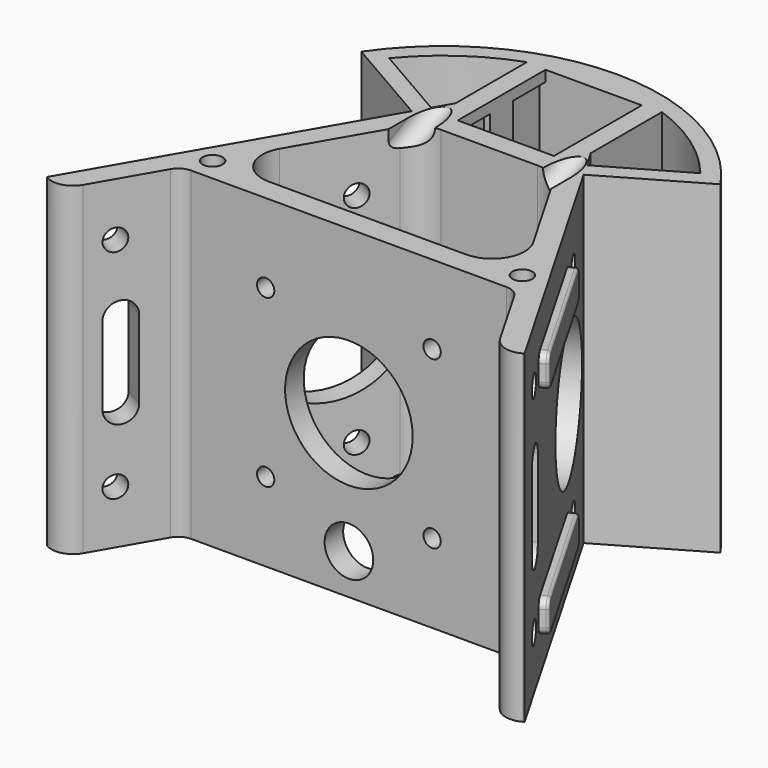
from build123d import *

# Parameters (mm, degrees)
F0_R           = 1.85
F1_DEPTH       = 30
F1_DEPTH_BACK  = 30
F2_DEPTH       = 1.2
F2_DEPTH_BACK  = 1.2
F3_R           = 7
F3_R_2         = 4
F4_DEPTH       = 5
F5_R           = 11.8
F5_R_2         = 4.5
F5_R_3         = 1.6
F6_DEPTH       = 5
F7_R           = 12.75
F7_R_2         = 2
F8_DEPTH       = 5
F7_W           = 28.8
F7_H           = 6
F9_DEPTH       = 1.6
F10_R          = 12.75
F10_R_2        = 2
F11_DEPTH      = 5
F10_W          = 28.8
F10_H          = 6
F12_DEPTH      = 1.6
F13_DEPTH      = 20
F13_DEPTH_BACK = 20
F14_R          = 2.3
F15_DEPTH      = 8
F14_R_2        = 4
F16_DEPTH      = 6
F17_DEPTH      = 3.7
F20_W          = 17.8281234856
F20_H          = 5
F21_DEPTH      = 20
F23_DEPTH      = 10
F23_DEPTH_BACK = 10
F24_W          = 1.1
F24_H          = 7.5
F25_DEPTH      = 2
F26_R          = 1.5
F27_R          = 0.5


with BuildPart() as f1:
    # F0 (on Top) → F1 (new body, two sides)
    with BuildSketch(Plane.XY) as f1_sk:
        with BuildLine():
            Line((-29.1790561914, -36.3), (0, -36.3))
            Line((0, -36.3), (29.1790561914, -36.3))
            ThreePointArc((29.1790561914, -36.3), (30.6790561914, -36.7019237886), (31.7771324027, -37.8))
            Line((31.7771324027, -37.8), (38.5626933041, -49.5529362391))
            ThreePointArc((38.5626933041, -49.5529362391), (40.9915187388, -51.4166395442), (44.0267949192, -51.0170378542))
            Line((44.0267949192, -51.0170378542), (44.2, -50.9170378542))
            Line((44.2, -50.9170378542), (15.9, -1.9))
            Line((15.9, -1.9), (33.2205080757, 8.1))
            ThreePointArc((33.2205080757, 8.1), (18.7832372077, 20.9854948523), (0, 25.6396078403))
            ThreePointArc((0, 25.6396078403), (-18.7832372077, 20.9854948523), (-33.2205080757, 8.1))
            Line((-33.2205080757, 8.1), (-15.9, -1.9))
            Line((-15.9, -1.9), (-44.2, -50.9170378542))
            Line((-44.2, -50.9170378542), (-44.0267949192, -51.0170378542))
            ThreePointArc((-44.0267949192, -51.0170378542), (-40.9915187388, -51.4166395442), (-38.5626933041, -49.5529362391))
            Line((-38.5626933041, -49.5529362391), (-31.7771324027, -37.8))
            ThreePointArc((-31.7771324027, -37.8), (-30.6790561914, -36.7019237886), (-29.1790561914, -36.3))
        make_face()
        with Locations((-28.6594409491, -32)):
            Circle(F0_R, mode=Mode.SUBTRACT)
        with BuildLine():
            Line((-8.9140617428, -3.8), (0, -3.8))
            Line((0, -3.8), (8.9140617428, -3.8))
            ThreePointArc((8.9140617428, -3.8), (11.9140617428, -4.6038475773), (14.1102141655, -6.8))
            Line((14.1102141655, -6.8), (23.4632885264, -23))
            ThreePointArc((23.4632885264, -23), (23.4632885264, -29), (18.2671361037, -32))
            Line((18.2671361037, -32), (0, -32))
            Line((0, -32), (-18.2671361037, -32))
            ThreePointArc((-18.2671361037, -32), (-23.4632885264, -29), (-23.4632885264, -23))
            Line((-23.4632885264, -23), (-14.1102141655, -6.8))
            ThreePointArc((-14.1102141655, -6.8), (-11.9140617428, -4.6038475773), (-8.9140617428, -3.8))
        make_face(mode=Mode.SUBTRACT)
        with Locations((28.6594409491, -32)):
            Circle(F0_R, mode=Mode.SUBTRACT)
        with BuildLine():
            Line((-12.5, 3.9889727457), (-14.4, 0.6980762114))
            Line((-14.4, 0.6980762114), (-28.7948873374, 9.0089682906))
            ThreePointArc((-28.7948873374, 9.0089682906), (-21.4290492058, 15.8541470878), (-12.5, 20.4784442699))
            Line((-12.5, 20.4784442699), (-12.5, 3.9889727457))
        make_face(mode=Mode.SUBTRACT)
        Polygon((10, 0), (0, 0), (-10, 0), (-10, 7.5), (-8.9, 7.5), (-8.9, 12.8), (-10, 12.8), (-10, 20.3), (0, 20.3), (10, 20.3), (10, 12.8), (8.9, 12.8), (8.9, 7.5), (10, 7.5), align=None, mode=Mode.SUBTRACT)
        with BuildLine():
            Line((28.7948873374, 9.0089682906), (14.4, 0.6980762114))
            Line((14.4, 0.6980762114), (12.5, 3.9889727457))
            Line((12.5, 3.9889727457), (12.5, 20.4784442699))
            ThreePointArc((12.5, 20.4784442699), (21.4290492058, 15.8541470878), (28.7948873374, 9.0089682906))
        make_face(mode=Mode.SUBTRACT)
    extrude(amount=F1_DEPTH)
    extrude(f1_sk.sketch, amount=-F1_DEPTH_BACK)

    # F0 (on Top) → F2 (join, two sides)
    with BuildSketch(Plane.XY) as f2_sk:
        with BuildLine():
            Line((-28.7948873374, 9.0089682906), (-14.4, 0.6980762114))
            Line((-14.4, 0.6980762114), (-12.5, 3.9889727457))
            Line((-12.5, 3.9889727457), (-12.5, 20.4784442699))
            ThreePointArc((-12.5, 20.4784442699), (-21.4290492058, 15.8541470878), (-28.7948873374, 9.0089682906))
        make_face()
        with BuildLine():
            Line((12.5, 3.9889727457), (14.4, 0.6980762114))
            Line((14.4, 0.6980762114), (28.7948873374, 9.0089682906))
            ThreePointArc((28.7948873374, 9.0089682906), (21.4290492058, 15.8541470878), (12.5, 20.4784442699))
            Line((12.5, 20.4784442699), (12.5, 3.9889727457))
        make_face()
    extrude(amount=F2_DEPTH)
    extrude(f2_sk.sketch, amount=-F2_DEPTH_BACK)

    # F3 (on face) → F4 (cut)
    with BuildSketch(Plane(origin=(0, 0, 0), x_dir=(-1, 0, 0), z_dir=(0, 1, 0))):
        Circle(F3_R)
        with Locations((0, -22)):
            Circle(F3_R_2)
    extrude(amount=-F4_DEPTH, mode=Mode.SUBTRACT)

    # F5 (on face) → F6 (cut)
    with BuildSketch(Plane.XZ.offset(36.3)):
        Circle(F5_R)
        with Locations((0, -22.5)):
            Circle(F5_R_2)
        with Locations((15.4, -15.4)):
            Circle(F5_R_3)
        with Locations((15.4, 15.4)):
            Circle(F5_R_3)
        with Locations((-15.4, 15.4)):
            Circle(F5_R_3)
        with Locations((-15.4, -15.4)):
            Circle(F5_R_3)
    extrude(amount=-F6_DEPTH, mode=Mode.SUBTRACT)

    # F7 (on face) → F8 (cut)
    with BuildSketch(Plane(origin=(11.1022758664, 6.4099019601, 0), x_dir=(-0.5, 0.8660254038, 0), z_dir=(0.8660254038, 0.5, 0))):
        with BuildLine():
            ThreePointArc((-53.4954482672, 7.25), (-56.3454482672, 10.1), (-59.1954482672, 7.25))
            Line((-59.1954482672, 7.25), (-59.1954482672, -7.25))
            ThreePointArc((-59.1954482672, -7.25), (-56.3454482672, -10.1), (-53.4954482672, -7.25))
            Line((-53.4954482672, -7.25), (-53.4954482672, 7.25))
        make_face()
        with Locations((-23.8454482672, 0)):
            Circle(F7_R)
        with Locations((-19.6954482672, 20.1)):
            Circle(F7_R_2)
        with Locations((-57.1954482672, 20.1)):
            Circle(F7_R_2)
        with Locations((-57.1954482672, -20.1)):
            Circle(F7_R_2)
        with Locations((-19.6954482672, -20.1)):
            Circle(F7_R_2)
    extrude(amount=-F8_DEPTH, mode=Mode.SUBTRACT)

    # F7 (on face) → F9 (join)
    with BuildSketch(Plane(origin=(11.1022758664, 6.4099019601, 0), x_dir=(-0.5, 0.8660254038, 0), z_dir=(0.8660254038, 0.5, 0))):
        with Locations((-38.4454482672, 20)):
            Rectangle(F7_W, F7_H)
        with Locations((-38.4454482672, -20)):
            Rectangle(F7_W, F7_H)
    extrude(amount=F9_DEPTH)

    # F10 (on face) → F11 (cut)
    with BuildSketch(Plane(origin=(-11.1022758664, 6.4099019601, 0), x_dir=(-0.5, -0.8660254038, 0), z_dir=(-0.8660254038, 0.5, 0))):
        with Locations((23.8454482672, 0)):
            Circle(F10_R)
        with BuildLine():
            ThreePointArc((59.1954482672, 7.25), (56.3454482672, 10.1), (53.4954482672, 7.25))
            Line((53.4954482672, 7.25), (53.4954482672, -7.25))
            ThreePointArc((53.4954482672, -7.25), (56.3454482672, -10.1), (59.1954482672, -7.25))
            Line((59.1954482672, -7.25), (59.1954482672, 7.25))
        make_face()
        with Locations((57.1954482672, -20.1)):
            Circle(F10_R_2)
        with Locations((19.6954482672, 20.1)):
            Circle(F10_R_2)
        with Locations((57.1954482672, 20.1)):
            Circle(F10_R_2)
        with Locations((19.6954482672, -20.1)):
            Circle(F10_R_2)
    extrude(amount=-F11_DEPTH, mode=Mode.SUBTRACT)

    # F10 (on face) → F12 (join)
    with BuildSketch(Plane(origin=(-11.1022758664, 6.4099019601, 0), x_dir=(-0.5, -0.8660254038, 0), z_dir=(-0.8660254038, 0.5, 0))):
        with Locations((38.4454482672, 20)):
            Rectangle(F10_W, F10_H)
        with Locations((38.4454482672, -20)):
            Rectangle(F10_W, F10_H)
    extrude(amount=F12_DEPTH)

    # F0 (on Top) → F13 (join, two sides)
    with BuildSketch(Plane.XY) as f13_sk:
        with Locations((-28.6594409491, -32)):
            Circle(F0_R)
        with Locations((28.6594409491, -32)):
            Circle(F0_R)
    extrude(amount=F13_DEPTH)
    extrude(f13_sk.sketch, amount=-F13_DEPTH_BACK)

    # F14 (on face) → F15 (cut)
    with BuildSketch(Plane.XZ.offset(-20.3)):
        with Locations((0, -16.7)):
            Circle(F14_R)
        with Locations((0, 16.7)):
            Circle(F14_R)
    extrude(amount=-F15_DEPTH, mode=Mode.SUBTRACT)

    # F14 (on face) → F16 (cut)
    with BuildSketch(Plane.XZ.offset(-20.3)):
        with Locations((0, -16.7)):
            Circle(F14_R_2)
        with Locations((0, -16.7)):
            Circle(F14_R, mode=Mode.SUBTRACT)
        with Locations((0, 16.7)):
            Circle(F14_R_2)
        with Locations((0, 16.7)):
            Circle(F14_R, mode=Mode.SUBTRACT)
    extrude(amount=-F16_DEPTH, mode=Mode.SUBTRACT)

    # F14 (on face) → F17 (join)
    with BuildSketch(Plane.XZ.offset(-20.3)):
        with Locations((0, -16.7)):
            Circle(F14_R_2)
        with Locations((0, -16.7)):
            Circle(F14_R, mode=Mode.SUBTRACT)
        with Locations((0, 16.7)):
            Circle(F14_R_2)
        with Locations((0, 16.7)):
            Circle(F14_R, mode=Mode.SUBTRACT)
    extrude(amount=-F17_DEPTH)

    # F24 (on face) → F25 (join)
    with BuildSketch(Plane.XY.offset(30)):
        with Locations((-9.45, 16.55)):
            Rectangle(F24_W, F24_H)
        with Locations((-9.45, 3.75)):
            Rectangle(F24_W, F24_H)
        with Locations((9.45, 16.55)):
            Rectangle(F24_W, F24_H)
        with Locations((9.45, 3.75)):
            Rectangle(F24_W, F24_H)
    extrude(amount=-F25_DEPTH)

    # F26
    f26_edges = [f1.edges().sort_by_distance(p)[0] for p in [
        (38.21782, -38.955599, 23),
        (38.21782, -38.955599, 17),
        (23.81782, -14.014067, 23),
        (23.81782, -14.014067, 17),
        (23.81782, -14.014067, -17),
        (23.81782, -14.014067, -23),
        (38.21782, -38.955599, -17),
        (38.21782, -38.955599, -23),
        (-38.21782, -38.955599, 23),
        (-38.21782, -38.955599, 17),
        (-38.21782, -38.955599, -17),
        (-38.21782, -38.955599, -23),
        (-23.81782, -14.014067, 23),
        (-23.81782, -14.014067, 17),
        (-23.81782, -14.014067, -17),
        (-23.81782, -14.014067, -23),
    ]]
    fillet(f26_edges, radius=F26_R)

    # F27
    f27_edges = [f1.edges().sort_by_distance(p)[0] for p in [
        (-31.710641, -26.084833, 17),
        (-24.730311, -13.994547, 17.43934),
        (-38.690971, -38.175119, 17.43934),
        (-24.510641, -13.614067, 20),
        (-38.910641, -38.555599, 20),
        (-24.730311, -13.994547, 22.56066),
        (-38.690971, -38.175119, 22.56066),
        (-31.710641, -26.084833, 23),
        (-24.510641, -13.614067, -20),
        (-24.730311, -13.994547, -17.43934),
        (-24.730311, -13.994547, -22.56066),
        (-31.710641, -26.084833, -17),
        (-31.710641, -26.084833, -23),
        (-38.690971, -38.175119, -17.43934),
        (-38.690971, -38.175119, -22.56066),
        (-38.910641, -38.555599, -20),
        (31.710641, -26.084833, 23),
        (24.730311, -13.994547, 22.56066),
        (38.690971, -38.175119, 22.56066),
        (24.510641, -13.614067, 20),
        (38.910641, -38.555599, 20),
        (24.730311, -13.994547, 17.43934),
        (38.690971, -38.175119, 17.43934),
        (31.710641, -26.084833, 17),
        (31.710641, -26.084833, -17),
        (24.730311, -13.994547, -17.43934),
        (38.690971, -38.175119, -17.43934),
        (24.510641, -13.614067, -20),
        (38.910641, -38.555599, -20),
        (24.730311, -13.994547, -22.56066),
        (38.690971, -38.175119, -22.56066),
        (31.710641, -26.084833, -23),
    ]]
    fillet(f27_edges, radius=F27_R)


with BuildPart() as f21:
    # F20 (on face) → F21 (new body)
    with BuildSketch(Plane(origin=(0, -11.851969025, -26.3828077611), x_dir=(1, 0, 0), z_dir=(0, 0.4097810757, 0.9121839014))):
        with Locations((0, 6.3271334459)):
            Rectangle(F20_W, F20_H)
    extrude(amount=-F21_DEPTH)


with BuildPart() as f23:
    # F22 (on face) → F23 (new body, two sides)
    with BuildSketch(Plane(origin=(0, 8.051969025, -3.6171922389), x_dir=(-1, 0, 0), z_dir=(0, 0.9121839014, -0.4097810757))) as f23_sk:
        with BuildLine():
            ThreePointArc((10, -28.92268513), (12.5, -31.42268513), (15, -28.92268513))
            Line((15, -28.92268513), (10, -28.92268513))
        make_face()
        with BuildLine():
            Line((15, -35.42268513), (15, -28.92268513))
            ThreePointArc((15, -28.92268513), (12.5, -31.42268513), (10, -28.92268513))
            Line((10, -28.92268513), (10, -35.42268513))
            Line((10, -35.42268513), (15, -35.42268513))
        make_face()
        with BuildLine():
            Line((10, -28.92268513), (15, -28.92268513))
            ThreePointArc((15, -28.92268513), (12.5, -26.42268513), (10, -28.92268513))
        make_face()
    extrude(amount=-F23_DEPTH)
    extrude(f23_sk.sketch, amount=F23_DEPTH_BACK)


with BuildPart() as f23b:
    # F22 (on face) → F23, piece 2 (new body, two sides)
    with BuildSketch(Plane(origin=(0, 8.051969025, -3.6171922389), x_dir=(-1, 0, 0), z_dir=(0, 0.9121839014, -0.4097810757))) as f23_2_sk:
        with BuildLine():
            Line((-10, -35.42268513), (-10, -28.92268513))
            ThreePointArc((-10, -28.92268513), (-12.5, -31.42268513), (-15, -28.92268513))
            Line((-15, -28.92268513), (-15, -35.42268513))
            Line((-15, -35.42268513), (-10, -35.42268513))
        make_face()
        with BuildLine():
            ThreePointArc((-15, -28.92268513), (-12.5, -31.42268513), (-10, -28.92268513))
            Line((-10, -28.92268513), (-15, -28.92268513))
        make_face()
        with BuildLine():
            Line((-15, -28.92268513), (-10, -28.92268513))
            ThreePointArc((-10, -28.92268513), (-12.5, -26.42268513), (-15, -28.92268513))
        make_face()
    extrude(amount=-F23_DEPTH)
    extrude(f23_2_sk.sketch, amount=F23_DEPTH_BACK)


with BuildPart() as f28_1:
    # F28: instance of F23b
    add(f23b.part.mirror(Plane.XY))


with BuildPart() as f28_2:
    # F28: instance of F23
    add(f23.part.mirror(Plane.XY))


with BuildPart() as f1_1:
    add(f1.part)

    # F29: cut F23b, F23, F28_1, F28_2, F21
    add(f23b.part, mode=Mode.SUBTRACT)
    add(f23.part, mode=Mode.SUBTRACT)
    add(f28_1.part, mode=Mode.SUBTRACT)
    add(f28_2.part, mode=Mode.SUBTRACT)
    add(f21.part, mode=Mode.SUBTRACT)


solid = f1_1.part
